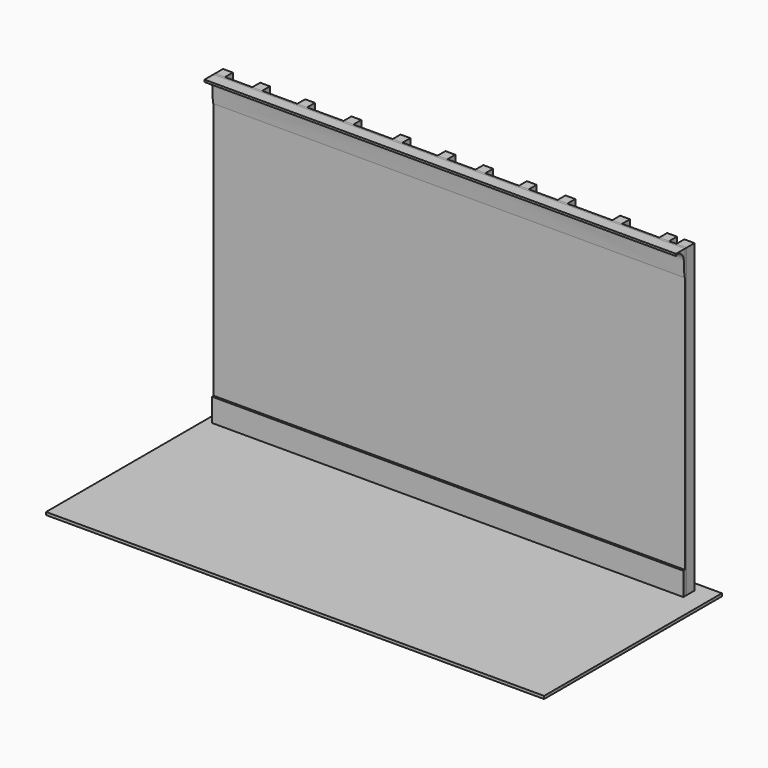
from build123d import *

# Parameters (mm, degrees)
F0_W     = 4267.2
F0_H     = 2768.6
F1_DEPTH = 19.05
F2_W     = 88.9
F2_H     = 2768.6
F3_DEPTH = 88.9
F2_W_2   = 92.7331652709
F4_W     = 4267.2
F4_H     = 209.55
F5_DEPTH = 19.05
F7_DEPTH = 4267.2
F8_W     = 4506.9556236267
F8_H     = 2011.68833673
F9_DEPTH = 25.4


with BuildPart() as f1:
    # F0 (on Front) → F1 (new body)
    with BuildSketch(Plane.XZ):
        with Locations((-296.1249180726, 1384.3)):
            Rectangle(F0_W, F0_H)
    extrude(amount=-F1_DEPTH)


with BuildPart() as f3:
    # F2 (on face) → F3 (new body)
    with BuildSketch(Plane(origin=(0, 19.05, 0), x_dir=(-1, 0, 0), z_dir=(0, 1, 0))):
        with Locations((2385.2749180726, 1384.3)):
            Rectangle(F2_W, F2_H)
    extrude(amount=F3_DEPTH)


with BuildPart() as f3b:
    # F2 (on face) → F3, piece 2 (new body)
    with BuildSketch(Plane(origin=(0, 19.05, 0), x_dir=(-1, 0, 0), z_dir=(0, 1, 0))):
        with Locations((-1791.108499292, 1384.3)):
            Rectangle(F2_W_2, F2_H)
    extrude(amount=F3_DEPTH)


with BuildPart() as f3c:
    # F2 (on face) → F3, piece 3 (new body)
    with BuildSketch(Plane(origin=(0, 19.05, 0), x_dir=(-1, 0, 0), z_dir=(0, 1, 0))):
        with Locations((2048.7249180726, 1384.3)):
            Rectangle(F2_W, F2_H)
    extrude(amount=F3_DEPTH)


with BuildPart() as f3d:
    # F2 (on face) → F3, piece 4 (new body)
    with BuildSketch(Plane(origin=(0, 19.05, 0), x_dir=(-1, 0, 0), z_dir=(0, 1, 0))):
        with Locations((1642.3249180726, 1384.3)):
            Rectangle(F2_W, F2_H)
    extrude(amount=F3_DEPTH)


with BuildPart() as f3e:
    # F2 (on face) → F3, piece 5 (new body)
    with BuildSketch(Plane(origin=(0, 19.05, 0), x_dir=(-1, 0, 0), z_dir=(0, 1, 0))):
        with Locations((1223.2249180726, 1384.3)):
            Rectangle(F2_W, F2_H)
    extrude(amount=F3_DEPTH)


with BuildPart() as f3f:
    # F2 (on face) → F3, piece 6 (new body)
    with BuildSketch(Plane(origin=(0, 19.05, 0), x_dir=(-1, 0, 0), z_dir=(0, 1, 0))):
        with Locations((778.7249180726, 1384.3)):
            Rectangle(F2_W, F2_H)
    extrude(amount=F3_DEPTH)


with BuildPart() as f3g:
    # F2 (on face) → F3, piece 7 (new body)
    with BuildSketch(Plane(origin=(0, 19.05, 0), x_dir=(-1, 0, 0), z_dir=(0, 1, 0))):
        with Locations((372.3249180726, 1384.3)):
            Rectangle(F2_W, F2_H)
    extrude(amount=F3_DEPTH)


with BuildPart() as f3h:
    # F2 (on face) → F3, piece 8 (new body)
    with BuildSketch(Plane(origin=(0, 19.05, 0), x_dir=(-1, 0, 0), z_dir=(0, 1, 0))):
        with Locations((29.4249180726, 1384.3)):
            Rectangle(F2_W, F2_H)
    extrude(amount=F3_DEPTH)


with BuildPart() as f3i:
    # F2 (on face) → F3, piece 9 (new body)
    with BuildSketch(Plane(origin=(0, 19.05, 0), x_dir=(-1, 0, 0), z_dir=(0, 1, 0))):
        with Locations((-364.2750819274, 1384.3)):
            Rectangle(F2_W, F2_H)
    extrude(amount=F3_DEPTH)


with BuildPart() as f3j:
    # F2 (on face) → F3, piece 10 (new body)
    with BuildSketch(Plane(origin=(0, 19.05, 0), x_dir=(-1, 0, 0), z_dir=(0, 1, 0))):
        with Locations((-713.5250819274, 1384.3)):
            Rectangle(F2_W, F2_H)
    extrude(amount=F3_DEPTH)


with BuildPart() as f3k:
    # F2 (on face) → F3, piece 11 (new body)
    with BuildSketch(Plane(origin=(0, 19.05, 0), x_dir=(-1, 0, 0), z_dir=(0, 1, 0))):
        with Locations((-1208.8250819274, 1384.3)):
            Rectangle(F2_W, F2_H)
    extrude(amount=F3_DEPTH)


with BuildPart() as f3l:
    # F2 (on face) → F3, piece 12 (new body)
    with BuildSketch(Plane(origin=(0, 19.05, 0), x_dir=(-1, 0, 0), z_dir=(0, 1, 0))):
        with Locations((-1634.2750819274, 1384.3)):
            Rectangle(F2_W, F2_H)
    extrude(amount=F3_DEPTH)


with BuildPart() as f5:
    # F4 (on face) → F5 (new body)
    with BuildSketch(Plane.XZ):
        with Locations((-296.1249180726, 104.775)):
            Rectangle(F4_W, F4_H)
    extrude(amount=F5_DEPTH)


with BuildPart() as f7:
    # F6 (on face) → F7 (new body, through all)
    with BuildSketch(Plane(origin=(-2429.7249180726, 0, 0), x_dir=(0, -1, 0), z_dir=(-1, 0, 0))):
        with BuildLine():
            Line((101.6, 2768.6), (0, 2768.6))
            Line((0, 2768.6), (0, 2540))
            Line((0, 2540), (6.35, 2540))
            add(Edge.make_bspline(
                [(101.6, 2749.55), (91.5826724048, 2759.5050639064), (63.0477493205, 2762.1295266592), (13.1480534698, 2716.5194241679), (11.6453144693, 2642.5524805079), (9.1553326848, 2572.672698402), (6.35, 2540)],
                knots=[0, 0, 0, 0, 0.1852229886, 0.42229431, 0.6858801593, 1, 1, 1, 1], degree=3))
            Line((101.6, 2749.55), (101.6, 2768.6))
        make_face()
    extrude(amount=-F7_DEPTH)


with BuildPart() as f9:
    # F8 (on Top) → F9 (new body)
    with BuildSketch(Plane.XY):
        with Locations((-239.709854126, -808.5811808705)):
            Rectangle(F8_W, F8_H)
    extrude(amount=-F9_DEPTH)


solid = Compound([f1.part, f3.part, f3b.part, f3c.part, f3d.part, f3e.part, f3f.part, f3g.part, f3h.part, f3i.part, f3j.part, f3k.part, f3l.part, f5.part, f7.part, f9.part])
